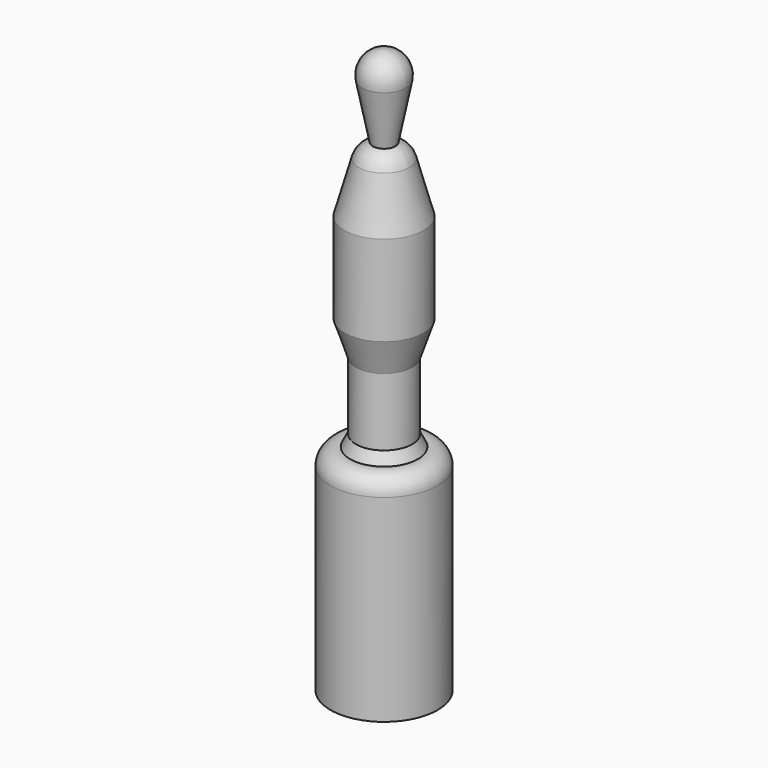
from build123d import *


with BuildPart() as f1:
    # F0 (on Front) → F1 (revolve)
    with BuildSketch(Plane.XZ):
        with BuildLine():
            Line((2, -14.5), (3.923928, -4.776395))
            ThreePointArc((3.923928, -4.776395), (3.090759, -1.460864), (0, 0))
            Line((0, 0), (0, -100))
            Line((0, -100), (9.5, -100))
            Line((9.5, -100), (9.5, -65))
            ThreePointArc((9.5, -65), (8.439902, -62.695114), (6, -62))
            Line((6, -62), (5, -60))
            Line((5, -60), (5, -48))
            Line((5, -48), (7, -42))
            Line((7, -42), (7, -26))
            Line((7, -26), (4.5, -17))
            ThreePointArc((4.5, -17), (3.578816, -15.421184), (2, -14.5))
        make_face()
    revolve(axis=Axis((0, 0, -50), (0, 0, 1)))


solid = f1.part
